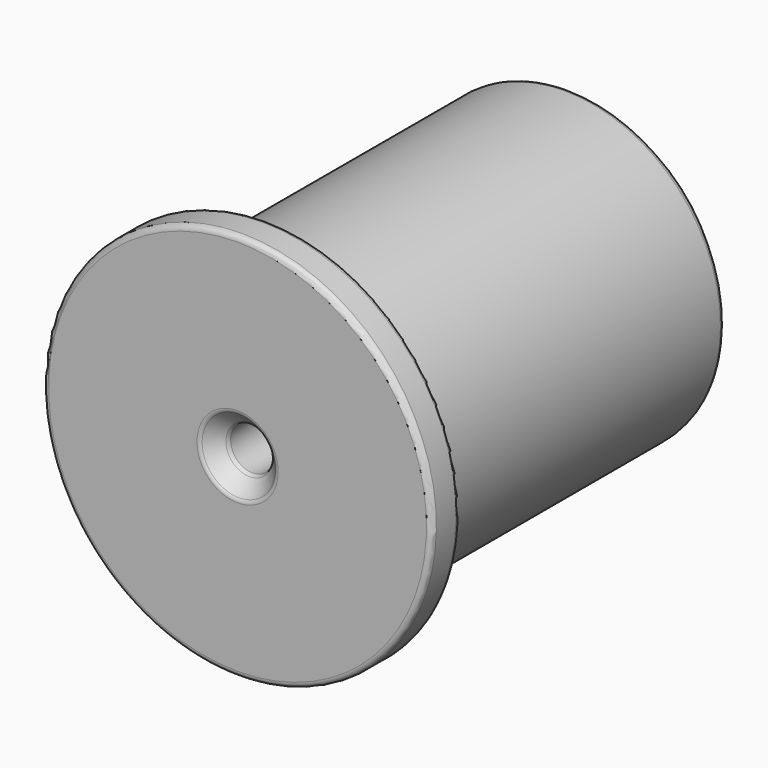
from build123d import *

# Parameters (mm, degrees)
F0_W     = 71.5
F0_H     = 24.5
F2_SIZE  = 3
F3_SIZE2 = 0.5
F3_SIZE  = 5
F4_R     = 1


with BuildPart() as f1:
    # F0 (on Right) → F1 (revolve)
    with BuildSketch(Plane.YZ):
        Polygon((0, 35.5), (0, 4), (6.5, 4), (6.5, 28.5), (6.5, 35.5), align=None)
        with Locations((42.25, 16.25)):
            Rectangle(F0_W, F0_H)
    revolve(axis=Axis((0, 38.0806664313, 0), (0, 1, 0)))

    # F2
    f2_edges = [f1.edges().sort_by_distance(p)[0] for p in [
        (0, 78, -28.5),
        (0, 78, -4),
        (0, 0, -4),
    ]]
    chamfer(f2_edges, length=F2_SIZE)

    # F3
    f3_edges = [f1.edges().sort_by_distance(p)[0] for p in [
        (0, 6.5, -28.5),
    ]]
    f3_side = f1.faces().sort_by_distance((0, 40.75, -28.5))[0]
    chamfer(f3_edges, length=F3_SIZE, length2=F3_SIZE2, reference=f3_side)

    # F4
    f4_edges = [f1.edges().sort_by_distance(p)[0] for p in [
        (0, 0, -35.5),
        (0, 6.5, -35.5),
        (0, 6.5, -29),
        (0, 75, -28.5),
        (0, 78, -25.5),
        (0, 75, -4),
        (0, 78, -7),
        (0, 0, -7),
        (0, 3, -4),
    ]]
    fillet(f4_edges, radius=F4_R)


solid = f1.part
